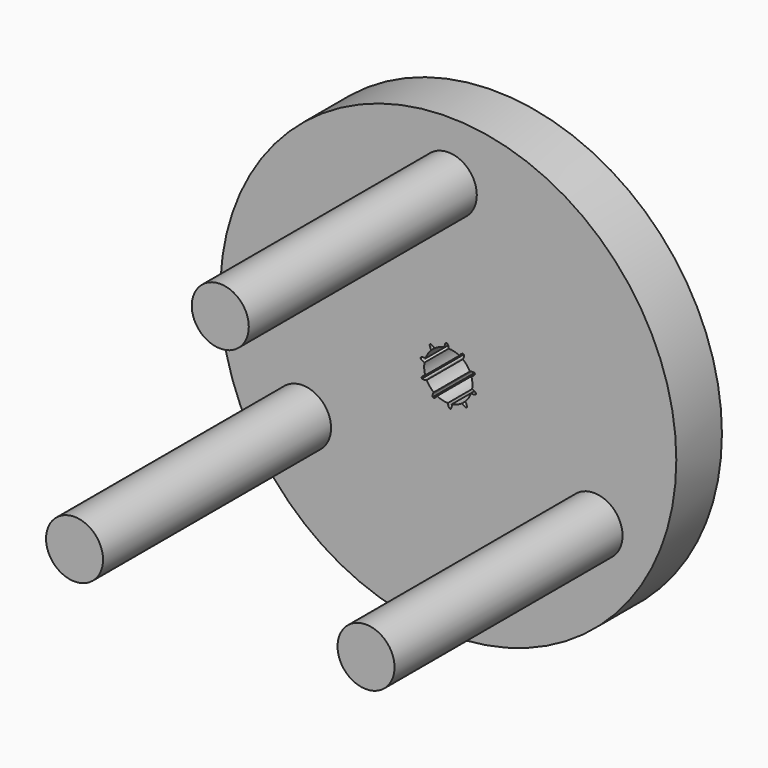
from build123d import *

# Parameters (mm, degrees)
F0_R     = 20
F1_DEPTH = 5
F2_R     = 2.5
F3_DEPTH = 25


with BuildPart() as f1:
    # F0 (on Front) → F1 (new body)
    with BuildSketch(Plane.XZ):
        Circle(F0_R)
        with BuildLine():
            ThreePointArc((2.022994, 0.617024), (2.091872, 0.311923), (2.115, 0))
            ThreePointArc((2.115, 0), (2.107794, -0.17444), (2.086225, -0.347692))
            ThreePointArc((2.086225, -0.347692), (2.181907, -0.376409), (2.271319, -0.420964))
            ThreePointArc((2.271319, -0.420964), (2.360037, -0.487855), (2.433965, -0.570799))
            Line((2.433965, -0.570799), (2.411372, -0.65976))
            ThreePointArc((2.411372, -0.65976), (2.306825, -0.697377), (2.196941, -0.713829))
            ThreePointArc((2.196941, -0.713829), (2.097104, -0.710321), (1.999314, -0.689903))
            ThreePointArc((1.999314, -0.689903), (1.788714, -1.128595), (1.483424, -1.507541))
            ThreePointArc((1.483424, -1.507541), (1.543952, -1.587014), (1.590099, -1.675615))
            ThreePointArc((1.590099, -1.675615), (1.622556, -1.781878), (1.633612, -1.892435))
            Line((1.633612, -1.892435), (1.563044, -1.951126))
            ThreePointArc((1.563044, -1.951126), (1.456352, -1.920108), (1.357784, -1.868829))
            ThreePointArc((1.357784, -1.868829), (1.279077, -1.807308), (1.211964, -1.733311))
            ThreePointArc((1.211964, -1.733311), (0.783729, -1.964432), (0.314005, -2.091561))
            ThreePointArc((0.314005, -2.091561), (0.31626, -2.191433), (0.301516, -2.290238))
            ThreePointArc((0.301516, -2.290238), (0.265314, -2.395284), (0.209274, -2.491225))
            Line((0.209274, -2.491225), (0.117686, -2.497228))
            ThreePointArc((0.117686, -2.497228), (0.049603, -2.409422), (0, -2.31))
            ThreePointArc((0, -2.31), (-0.027515, -2.213966), (-0.038315, -2.114653))
            ThreePointArc((-0.038315, -2.114653), (-0.520614, -2.049923), (-0.975353, -1.876675))
            ThreePointArc((-0.975353, -1.876675), (-1.032233, -1.9588), (-1.102237, -2.030068))
            ThreePointArc((-1.102237, -2.030068), (-1.193269, -2.093773), (-1.294999, -2.138452))
            Line((-1.294999, -2.138452), (-1.372624, -2.089475))
            ThreePointArc((-1.372624, -2.089475), (-1.376094, -1.97842), (-1.357784, -1.868829))
            ThreePointArc((-1.357784, -1.868829), (-1.323596, -1.774963), (-1.273959, -1.688269))
            ThreePointArc((-1.273959, -1.688269), (-1.6261, -1.352413), (-1.89216, -0.944964))
            ThreePointArc((-1.89216, -0.944964), (-1.986447, -0.977971), (-2.084972, -0.994481))
            ThreePointArc((-2.084972, -0.994481), (-2.196064, -0.992512), (-2.304627, -0.968863))
            Line((-2.304627, -0.968863), (-2.338638, -0.883612))
            ThreePointArc((-2.338638, -0.883612), (-2.276169, -0.791728), (-2.196941, -0.713829))
            ThreePointArc((-2.196941, -0.713829), (-2.114109, -0.657985), (-2.022994, -0.617024))
            ThreePointArc((-2.022994, -0.617024), (-2.110472, -0.138328), (-2.086225, 0.347692))
            ThreePointArc((-2.086225, 0.347692), (-2.181907, 0.376409), (-2.271319, 0.420964))
            ThreePointArc((-2.271319, 0.420964), (-2.360037, 0.487855), (-2.433965, 0.570799))
            Line((-2.433965, 0.570799), (-2.411372, 0.65976))
            ThreePointArc((-2.411372, 0.65976), (-2.306825, 0.697377), (-2.196941, 0.713829))
            ThreePointArc((-2.196941, 0.713829), (-2.097104, 0.710321), (-1.999314, 0.689903))
            ThreePointArc((-1.999314, 0.689903), (-1.788714, 1.128595), (-1.483424, 1.507541))
            ThreePointArc((-1.483424, 1.507541), (-1.543952, 1.587014), (-1.590099, 1.675615))
            ThreePointArc((-1.590099, 1.675615), (-1.622556, 1.781878), (-1.633612, 1.892435))
            Line((-1.633612, 1.892435), (-1.563044, 1.951126))
            ThreePointArc((-1.563044, 1.951126), (-1.456352, 1.920108), (-1.357784, 1.868829))
            ThreePointArc((-1.357784, 1.868829), (-1.279077, 1.807308), (-1.211964, 1.733311))
            ThreePointArc((-1.211964, 1.733311), (-0.783729, 1.964432), (-0.314005, 2.091561))
            ThreePointArc((-0.314005, 2.091561), (-0.31626, 2.191433), (-0.301516, 2.290238))
            ThreePointArc((-0.301516, 2.290238), (-0.265314, 2.395284), (-0.209274, 2.491225))
            Line((-0.209274, 2.491225), (-0.117686, 2.497228))
            ThreePointArc((-0.117686, 2.497228), (-0.049603, 2.409422), (0, 2.31))
            ThreePointArc((0, 2.31), (0.027515, 2.213966), (0.038315, 2.114653))
            ThreePointArc((0.038315, 2.114653), (0.520614, 2.049923), (0.975353, 1.876675))
            ThreePointArc((0.975353, 1.876675), (1.032233, 1.9588), (1.102237, 2.030068))
            ThreePointArc((1.102237, 2.030068), (1.193269, 2.093773), (1.294999, 2.138452))
            Line((1.294999, 2.138452), (1.372624, 2.089475))
            ThreePointArc((1.372624, 2.089475), (1.376094, 1.97842), (1.357784, 1.868829))
            ThreePointArc((1.357784, 1.868829), (1.323596, 1.774963), (1.273959, 1.688269))
            ThreePointArc((1.273959, 1.688269), (1.6261, 1.352413), (1.89216, 0.944964))
            ThreePointArc((1.89216, 0.944964), (1.986447, 0.977971), (2.084972, 0.994481))
            ThreePointArc((2.084972, 0.994481), (2.196064, 0.992512), (2.304627, 0.968863))
            Line((2.304627, 0.968863), (2.338638, 0.883612))
            ThreePointArc((2.338638, 0.883612), (2.276169, 0.791728), (2.196941, 0.713829))
            ThreePointArc((2.196941, 0.713829), (2.114109, 0.657985), (2.022994, 0.617024))
        make_face(mode=Mode.SUBTRACT)
    extrude(amount=F1_DEPTH)

    # F2 (on face) → F3 (join)
    with BuildSketch(Plane.XZ.offset(5)):
        with Locations((0, 14.761444)):
            Circle(F2_R)
        with Locations((-12.783785, -7.380722)):
            Circle(F2_R)
        with Locations((12.783785, -7.380722)):
            Circle(F2_R)
    extrude(amount=F3_DEPTH)


solid = f1.part
